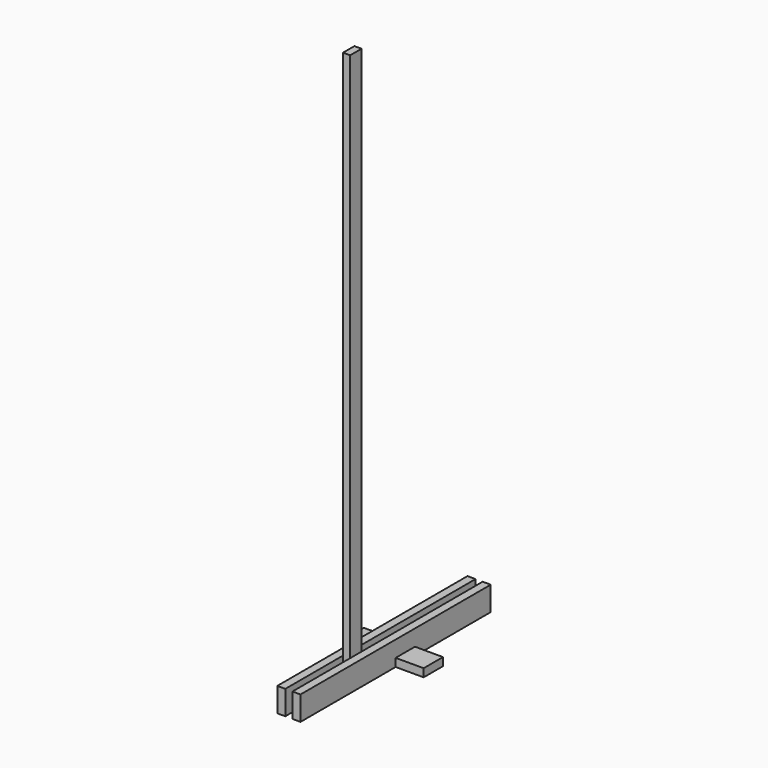
from build123d import *

# Parameters (mm, degrees)
F0_W     = 45
F0_H     = 90
F1_DEPTH = 3500
F2_W     = 1500
F2_H     = 152.4
F3_DEPTH = 50.8
F4_W     = 152.4
F4_H     = 50.8
F5_DEPTH = 50.8
F7_W     = 500
F7_H     = 152.4
F8_DEPTH = 50.8


with BuildPart() as f1:
    # F0 (on Top) → F1 (new body)
    with BuildSketch(Plane.XY):
        Rectangle(F0_W, F0_H)
    extrude(amount=F1_DEPTH)


with BuildPart() as f3:
    # F2 (on face) → F3 (new body)
    with BuildSketch(Plane.YZ.offset(22.5)):
        with Locations((250, 76.2)):
            Rectangle(F2_W, F2_H)
    extrude(amount=F3_DEPTH)

    # F4 (on face) → F5 (cut)
    with BuildSketch(Plane.YZ.offset(73.3)):
        with Locations((326.2, 25.4)):
            Rectangle(F4_W, F4_H)
    extrude(amount=-F5_DEPTH, mode=Mode.SUBTRACT)


with BuildPart() as f6_1:
    # F6: instance of F3
    add(f3.part.mirror(Plane.YZ))


with BuildPart() as f8:
    # F7 (on face) → F8 (new body)
    with BuildSketch(Plane(origin=(0, 0, 50.8), x_dir=(1, 0, 0), z_dir=(0, 0, -1))):
        with Locations((0, -326.2)):
            Rectangle(F7_W, F7_H)
    extrude(amount=F8_DEPTH)


solid = Compound([f1.part, f3.part, f6_1.part, f8.part])
